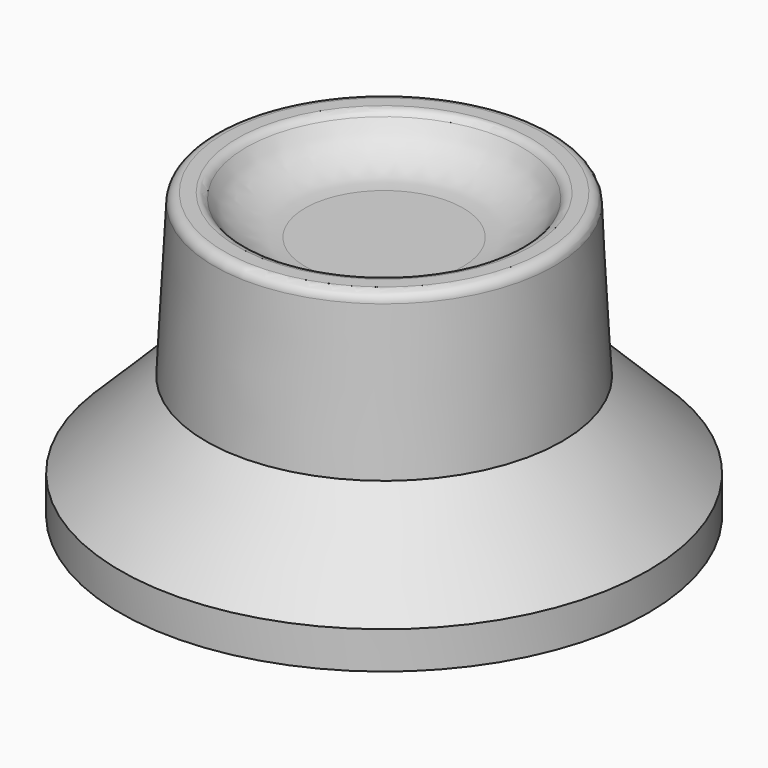
from build123d import *

# Parameters (mm, degrees)
F0_R      = 19.7846022737
F1_DEPTH  = 2.794
F1_FACE_R = 19.7846022737
F2_DEPTH  = 6.43804
F2_TAPER  = 45
F2_FACE_R = 13.3465622737
F3_DEPTH  = 12.08628
F3_TAPER  = 3
F4_R      = 10.241679593
F5_DEPTH  = 2.95594
F6_R      = 0.762
F7_R      = 5.08
F8_T      = -2.54
F9_R      = 7.1796509853
F10_DEPTH = 15.93384
F10_TAPER = 3
F11_R     = 4.6826437898
F12_DEPTH = 8.40654


with BuildPart() as f1:
    # F0 (on Top) → F1 (new body)
    with BuildSketch(Plane.XY):
        Circle(F0_R)
    extrude(amount=F1_DEPTH)

    # F1_face (on face) → F2 (join)
    with BuildSketch(Plane.XY.offset(2.794)):
        Circle(F1_FACE_R)
    extrude(amount=F2_DEPTH, taper=F2_TAPER)

    # F2_face (on face) → F3 (join)
    with BuildSketch(Plane.XY.offset(9.23204)):
        Circle(F2_FACE_R)
    extrude(amount=F3_DEPTH, taper=F3_TAPER)

    # F4 (on face) → F5 (cut, symmetric)
    with BuildSketch(Plane.XY.offset(21.31832)):
        Circle(F4_R)
    extrude(amount=F5_DEPTH, both=True, mode=Mode.SUBTRACT)

    # F6
    f6_edges = [f1.edges().sort_by_distance(p)[0] for p in [
        (-12.713147, 0, 21.31832),
        (-10.24168, 0, 21.31832),
    ]]
    fillet(f6_edges, radius=F6_R)

    # F7
    f7_edges = [f1.edges().sort_by_distance(p)[0] for p in [
        (-10.24168, 0, 18.36238),
    ]]
    fillet(f7_edges, radius=F7_R)

    # F8
    f8_openings = [f1.faces().sort_by_distance(p)[0] for p in [
        (0, 0, 0),
    ]]
    offset(amount=F8_T, openings=f8_openings, kind=Kind.INTERSECTION)

    # F9 (on face) → F10 (join)
    with BuildSketch(Plane(origin=(0, 0, 15.82238), x_dir=(1, 0, 0), z_dir=(0, 0, -1))):
        Circle(F9_R)
    extrude(amount=F10_DEPTH, taper=F10_TAPER)

    # F11 (on face) → F12 (cut, symmetric)
    with BuildSketch(Plane(origin=(0, 0, -0.11146), x_dir=(1, 0, 0), z_dir=(0, 0, -1))):
        Circle(F11_R)
    extrude(amount=F12_DEPTH, both=True, mode=Mode.SUBTRACT)


solid = f1.part
